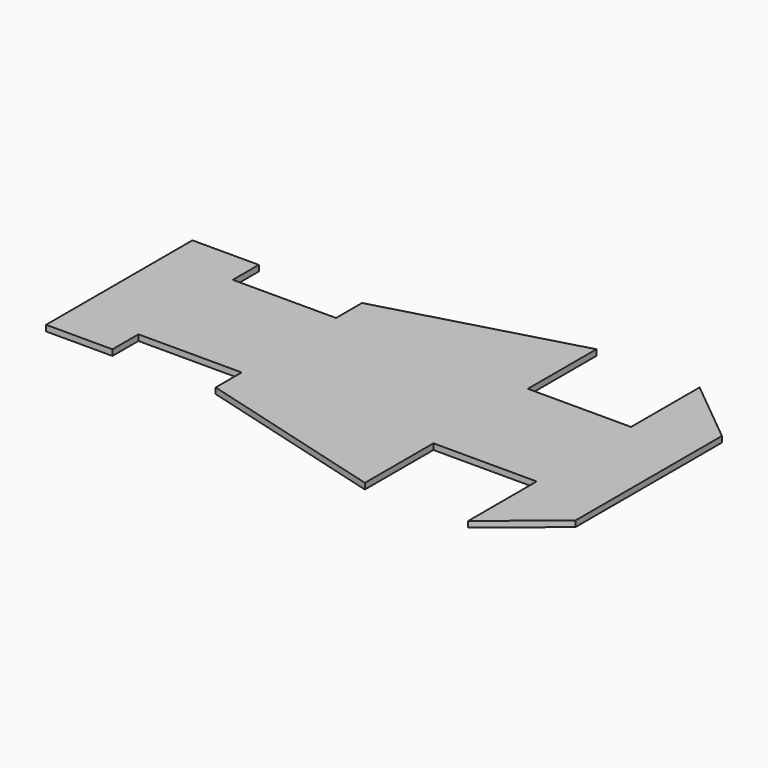
from build123d import *

# Parameters (mm, degrees)
F1_DEPTH = 2


with BuildPart() as f1:
    # F0 (on Top) → F1 (new body, symmetric)
    with BuildSketch(Plane.XY):
        Polygon((0, 62), (0, 0), (0, -62), (45, -62), (45, -40), (115, -40), (115, -62), (245, -98.081973), (245, -40), (315, -40), (315, -98.081973), (359, -62), (359, 0), (359, 62), (315, 98.081973), (315, 40), (245, 40), (245, 98.081973), (115, 62), (115, 40), (45, 40), (45, 62), align=None)
    extrude(amount=F1_DEPTH, both=True)


solid = f1.part
